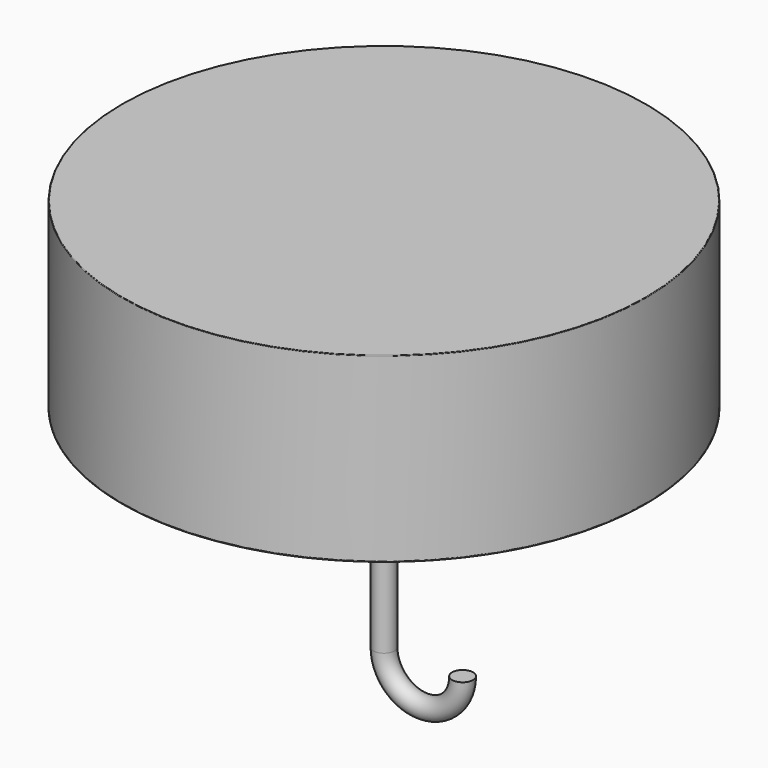
from build123d import *

# Parameters (mm, degrees)
F1_R = 2
F5_R = 0.1


with BuildPart() as f2:
    # F2: sweep along a path in F0
    with BuildLine(Plane.XZ) as f2_path:
        Line((0, 75), (0, 0))
        ThreePointArc((0, 0), (7.5, -7.5), (15, 0))
    # F1 (on Top) → F2 (sweep)
    with BuildSketch(Plane.XY):
        with Locations((15, 0)):
            Circle(F1_R)
    sweep(path=f2_path.line)

    # F3 (on Front) → F4 (revolve)
    with BuildSketch(Plane.XZ):
        with BuildLine():
            Line((-50, 75), (-50, 40))
            ThreePointArc((-50, 40), (-29.154759, 61.924599), (0, 70))
            Line((0, 70), (0, 75))
            Line((0, 75), (-50, 75))
        make_face()
    revolve(axis=Axis((0, 0, 72.5), (0, 0, 1)))

    # F5
    f5_edges = [f2.edges().sort_by_distance(p)[0] for p in [
        (50, 0, 75),
        (50, 0, 40),
    ]]
    fillet(f5_edges, radius=F5_R)


solid = f2.part
